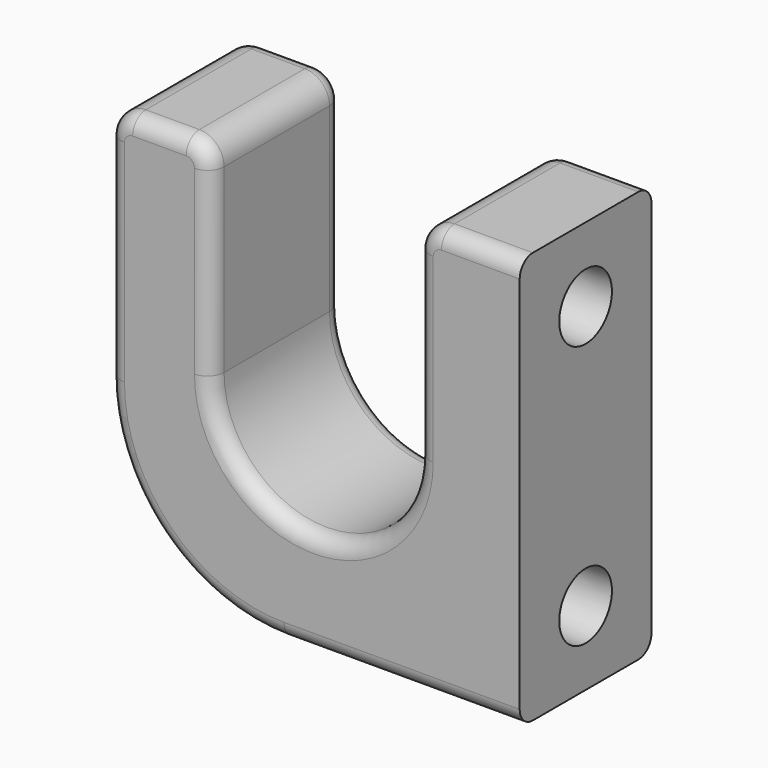
from build123d import *

# Parameters (mm, degrees)
F1_DEPTH = 20
F2_R     = 3
F3_R     = 21.3660555905
F4_R     = 4
F7_DEPTH = 6.7
F7_TAPER = 1.25
F8_D     = 5.5
F8_DEPTH = 2
F8_START = 6.7
F8_TIP   = 1.6523667023
F9_R     = 2


with BuildPart() as f1:
    # F0 (on Front) → F1 (new body)
    with BuildSketch(Plane.XZ):
        with BuildLine():
            Line((-25, -25), (25, -25))
            Line((25, -25), (25, 25))
            Line((25, 25), (12.5, 25))
            Line((12.5, 25), (12.5, 0))
            ThreePointArc((12.5, 0), (0, -12.5), (-12.5, 0))
            Line((-12.5, 0), (-12.5, 25))
            Line((-12.5, 25), (-25, 25))
            Line((-25, 25), (-25, -25))
        make_face()
    extrude(amount=F1_DEPTH)

    # F2
    f2_edges = [f1.edges().sort_by_distance(p)[0] for p in [
        (12.5, -10, 25),
        (-12.5, -10, 25),
        (-25, -10, 25),
    ]]
    fillet(f2_edges, radius=F2_R)

    # F3
    f3_edges = [f1.edges().sort_by_distance(p)[0] for p in [
        (-25, -10, -25),
    ]]
    fillet(f3_edges, radius=F3_R)

    # F4 (on face) → F7 (cut)
    with BuildSketch(Plane.YZ.offset(25)):
        with Locations((-10, 16)):
            Circle(F4_R)
        with Locations((-10, -16)):
            Circle(F4_R)
    extrude(amount=-F7_DEPTH, taper=F7_TAPER, mode=Mode.SUBTRACT)

    # F8
    # its depths count from where the whole tool has entered the part; down to there all is cleared
    with Locations(Plane.YZ.offset(25)):
        with Locations((-10, 16), (-10, -16)):
            Hole(F8_D / 2, depth=F8_START)
    with Locations(Plane.YZ.offset(25).offset(-F8_START)):
        with Locations((-10, 16), (-10, -16)):
            Hole(F8_D / 2, depth=F8_DEPTH)
            with Locations((0, 0, -(F8_DEPTH + F8_TIP / 2))):  # 118° drill point
                Cone(0, F8_D / 2, F8_TIP, mode=Mode.SUBTRACT)

    # F9
    f9_edges = [f1.edges().sort_by_distance(p)[0] for p in [
        (20.25, 0, 25),
        (20.25, -20, 25),
    ]]
    fillet(f9_edges, radius=F9_R)


solid = f1.part
